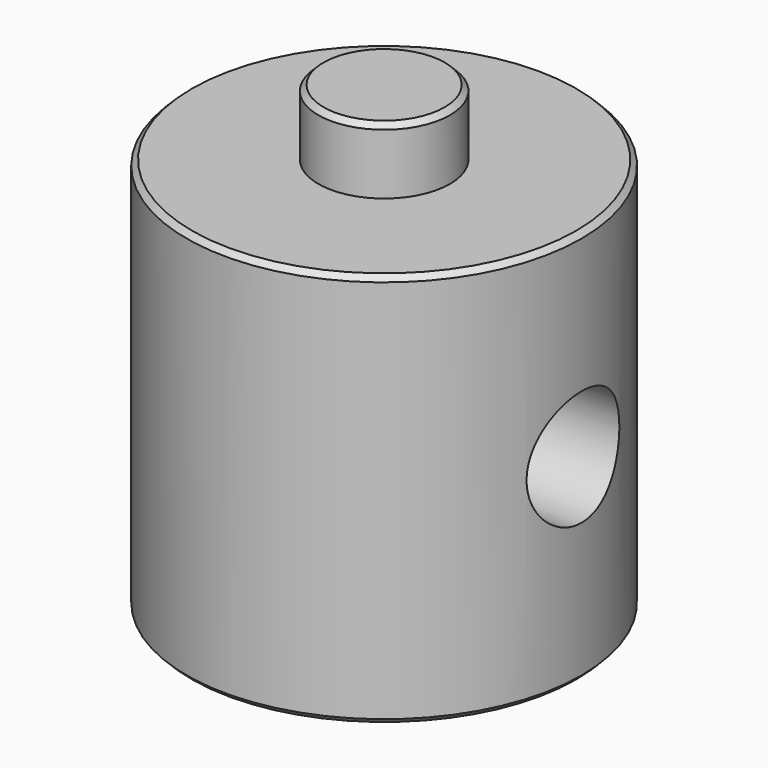
from build123d import *

# Parameters (mm, degrees)
F0_R     = 9.525
F1_DEPTH = 19.05
F2_R     = 3.175
F3_DEPTH = 3.175
F4_R     = 3.175
F5_DEPTH = 3.175
F6_SIZE  = 0.254
F7_R     = 2.794
F8_DEPTH = 25.4
F9_DEPTH = 25.4


with BuildPart() as f1:
    # F0 (on Top) → F1 (new body)
    with BuildSketch(Plane.XY):
        Circle(F0_R)
    extrude(amount=F1_DEPTH)

    # F2 (on Top) → F3 (join)
    with BuildSketch(Plane.XY):
        Circle(F2_R)
    extrude(amount=-F3_DEPTH)

    # F4 (on face) → F5 (join)
    with BuildSketch(Plane.XY.offset(19.05)):
        Circle(F4_R)
    extrude(amount=F5_DEPTH)

    # F6
    f6_edges = [f1.edges().sort_by_distance(p)[0] for p in [
        (-3.175, 0, 22.225),
        (-9.525, 0, 19.05),
        (-3.175, 0, -3.175),
        (-9.525, 0, 0),
    ]]
    chamfer(f6_edges, length=F6_SIZE)

    # F7 (on Right) → F8 (cut)
    with BuildSketch(Plane.YZ):
        with Locations((0, 9.525)):
            Circle(F7_R)
    extrude(amount=-F8_DEPTH, mode=Mode.SUBTRACT)

    # F7 (on Right) → F9 (cut)
    with BuildSketch(Plane.YZ):
        with Locations((0, 9.525)):
            Circle(F7_R)
    extrude(amount=F9_DEPTH, mode=Mode.SUBTRACT)


solid = f1.part
